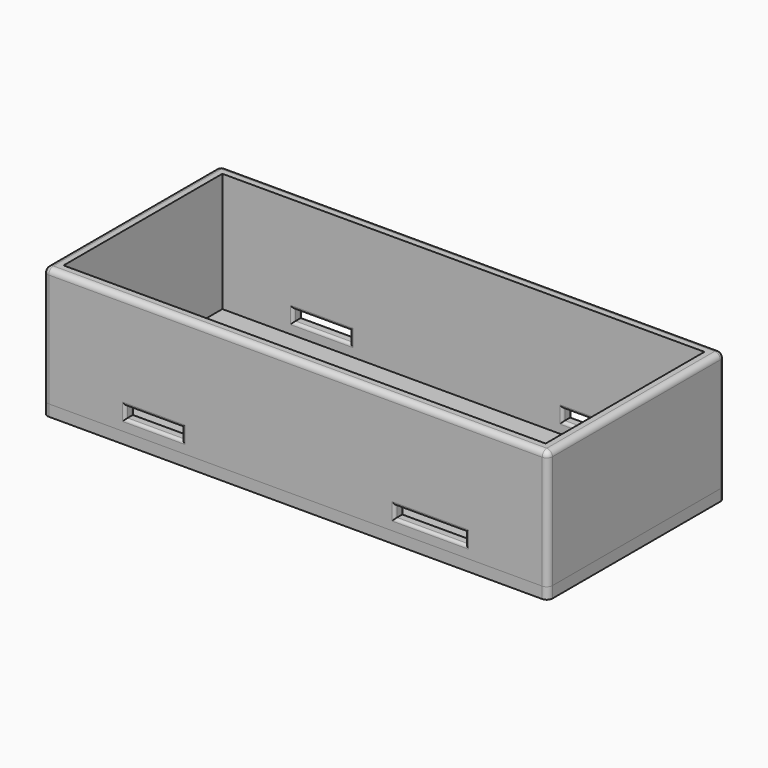
from build123d import *

# Parameters (mm, degrees)
F0_W     = 89
F0_H     = 39
F0_W_2   = 85
F0_H_2   = 35
F1_DEPTH = 23
F2_W     = 89
F2_H     = 39
F3_DEPTH = 2
F4_R     = 1
F5_R     = 1
F6_W     = 10
F6_H     = 2
F6_W_2   = 12.5
F7_DEPTH = 50
F8_R     = 0.5


with BuildPart() as f1:
    # F0 (on Top) → F1 (new body)
    with BuildSketch(Plane.XY):
        with Locations((16.2850007862, -2.3460731005)):
            Rectangle(F0_W, F0_H)
        with Locations((16.2850007862, -2.3460731005)):
            Rectangle(F0_W_2, F0_H_2, mode=Mode.SUBTRACT)
    extrude(amount=F1_DEPTH)

    # F4
    f4_edges = [f1.edges().sort_by_distance(p)[0] for p in [
        (16.285001, 17.153927, 23),
        (-28.214999, -2.346073, 23),
        (16.285001, -21.846073, 23),
        (60.785001, -2.346073, 23),
        (60.785001, 17.153927, 11.5),
        (60.785001, -21.846073, 11.5),
        (-28.214999, 17.153927, 11.5),
        (-28.214999, -21.846073, 11.5),
    ]]
    fillet(f4_edges, radius=F4_R)

    # F6 (on Front) → F7 (cut, symmetric)
    with BuildSketch(Plane.XZ):
        with Locations((-8.7149992138, 5)):
            Rectangle(F6_W, F6_H)
        with Locations((40.0350007862, 5)):
            Rectangle(F6_W_2, F6_H)
    extrude(amount=F7_DEPTH, both=True, mode=Mode.SUBTRACT)

    # F8
    f8_edges = [f1.edges().sort_by_distance(p)[0] for p in [
        (-13.714999, -21.846073, 5),
        (-8.714999, -21.846073, 6),
        (-8.714999, -21.846073, 4),
        (-3.714999, -21.846073, 5),
        (40.035001, -21.846073, 6),
        (33.785001, -21.846073, 5),
        (40.035001, -21.846073, 4),
        (46.285001, -21.846073, 5),
        (-8.714999, 15.153927, 6),
        (-8.714999, 15.153927, 4),
        (-13.714999, 15.153927, 5),
        (-3.714999, 15.153927, 5),
        (33.785001, 15.153927, 5),
        (40.035001, 15.153927, 6),
        (40.035001, 15.153927, 4),
        (46.285001, 15.153927, 5),
        (46.285001, 17.153927, 5),
        (40.035001, 17.153927, 6),
        (33.785001, 17.153927, 5),
        (40.035001, 17.153927, 4),
        (-13.714999, 17.153927, 5),
        (-8.714999, 17.153927, 4),
        (-3.714999, 17.153927, 5),
        (-8.714999, 17.153927, 6),
        (-3.714999, -19.846073, 5),
        (-8.714999, -19.846073, 4),
        (-13.714999, -19.846073, 5),
        (-8.714999, -19.846073, 6),
        (46.285001, -19.846073, 5),
        (40.035001, -19.846073, 4),
        (33.785001, -19.846073, 5),
        (40.035001, -19.846073, 6),
    ]]
    fillet(f8_edges, radius=F8_R)


with BuildPart() as f3:
    # F2 (on Top) → F3 (new body)
    with BuildSketch(Plane.XY):
        with Locations((16.2850007862, -2.3460731005)):
            Rectangle(F2_W, F2_H)
    extrude(amount=F3_DEPTH)

    # F5
    f5_edges = [f3.edges().sort_by_distance(p)[0] for p in [
        (60.785001, 17.153927, 1),
        (-28.214999, 17.153927, 1),
        (-28.214999, -21.846073, 1),
        (60.785001, -21.846073, 1),
    ]]
    fillet(f5_edges, radius=F5_R)


solid = Compound([f1.part, f3.part])
